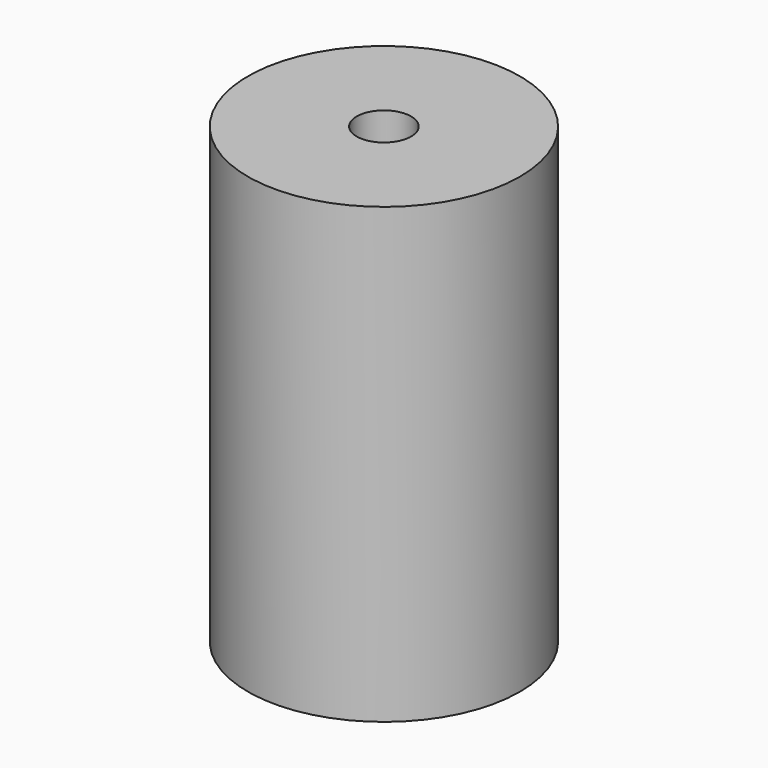
from build123d import *

# Parameters (mm, degrees)
F0_R           = 7.5
F0_R_2         = 3
F1_DEPTH       = 25
F2_D           = 3
F2_CBORE_D     = 6.5
F2_CBORE_DEPTH = 15


with BuildPart() as f1:
    # F0 (on Top) → F1 (new body)
    with BuildSketch(Plane.XY):
        Circle(F0_R)
        Circle(F0_R_2, mode=Mode.SUBTRACT)
        Circle(F0_R)
        Circle(F0_R_2, mode=Mode.SUBTRACT)
        Circle(F0_R_2)
    extrude(amount=F1_DEPTH)

    # F2 (through all)
    with Locations(Plane(origin=(0, 0, 0), x_dir=(1, 0, 0), z_dir=(0, 0, -1))):
        with Locations((0, 0)):
            CounterBoreHole(F2_D / 2, F2_CBORE_D / 2, F2_CBORE_DEPTH)


solid = f1.part
